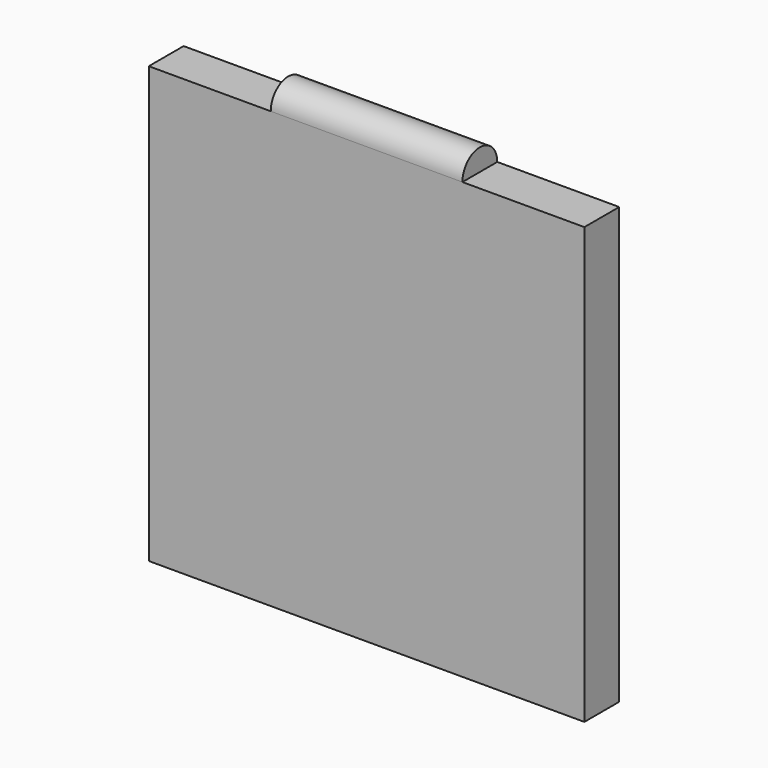
from build123d import *

# Parameters (mm, degrees)
F0_W     = 127
F0_H     = 127
F1_DEPTH = 6.35
F2_R     = 6.35
F3_DEPTH = 27.94


with BuildPart() as f1:
    # F0 (on Front) → F1 (new body, symmetric)
    with BuildSketch(Plane.XZ):
        Rectangle(F0_W, F0_H)
    extrude(amount=F1_DEPTH, both=True)

    # F2 (on Right) → F3 (join, symmetric)
    with BuildSketch(Plane.YZ):
        with Locations((0, 63.5)):
            Circle(F2_R)
    extrude(amount=F3_DEPTH, both=True)


solid = f1.part
